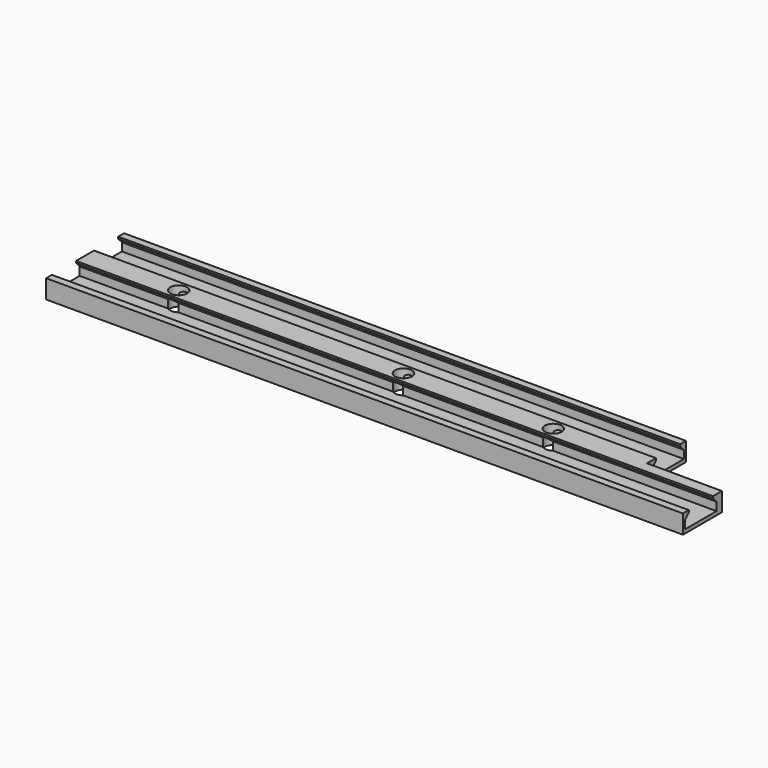
from build123d import *

# Parameters (mm, degrees)
F1_DEPTH = 85
F2_W     = 20
F2_H     = 13
F3_DEPTH = 5.001
F4_R     = 2.25
F5_DEPTH = 5


with BuildPart() as f1:
    # F0 (on Right) → F1 (new body, symmetric)
    with BuildSketch(Plane.YZ):
        Polygon((13, -2.5), (13, 2.5), (11.05, 2.5), (11.05, 1.9975107236), (12.3, 0.6552975509), (12.3, -1.5), (1.8, -1.5), (1.8, 0.7089860778), (3, 1.9975107236), (3, 2.5), (-3, 2.5), (-3, 1.9975107236), (-1.8, 0.7089860778), (-1.8, -1.5), (-12.3, -1.5), (-12.3, 0.6552975509), (-11.05, 1.9975107236), (-11.05, 2.5), (-13, 2.5), (-13, -2.5), align=None)
    extrude(amount=F1_DEPTH, both=True)

    # F2 (on face) → F3 (cut, through all)
    with BuildSketch(Plane(origin=(0, 0, -2.5), x_dir=(1, 0, 0), z_dir=(0, 0, -1))):
        with Locations((75, -6.5)):
            Rectangle(F2_W, F2_H)
    extrude(amount=-F3_DEPTH, mode=Mode.SUBTRACT)

    # F4 (on face) → F5 (cut, through all)
    with BuildSketch(Plane.XY.offset(2.5)):
        with Locations((-60, 0)):
            Circle(F4_R)
        Circle(F4_R)
        with Locations((40, 0)):
            Circle(F4_R)
    extrude(amount=-F5_DEPTH, mode=Mode.SUBTRACT)


solid = f1.part
